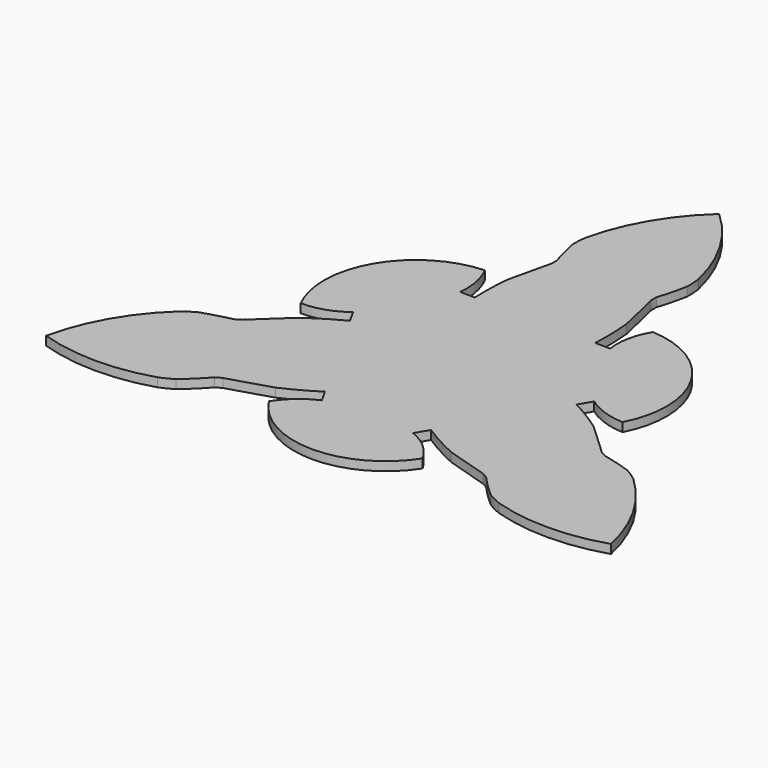
from build123d import *

# Parameters (mm, degrees)
F1_DEPTH = 1.524


with BuildPart() as f1:
    # F0 (on Top) → F1 (new body)
    with BuildSketch(Plane.XY):
        with BuildLine():
            ThreePointArc((-10.328003, 23.34511), (-10.546485, 19.972041), (-10.513837, 16.592061))
            Line((-10.513837, 16.592061), (10.397906, 16.369229))
            Line((10.397906, 16.369229), (10.397906, 16.592061))
            ThreePointArc((10.397906, 16.592061), (10.430555, 19.972041), (10.212073, 23.34511))
            ThreePointArc((10.212073, 23.34511), (9.373504, 27.05499), (8.504586, 30.75788))
            Line((8.504586, 30.75788), (8.504586, 31.872794))
            ThreePointArc((8.504586, 31.872794), (9.226054, 34.37206), (9.788919, 36.91175))
            ThreePointArc((9.788919, 36.91175), (9.766765, 38.207065), (9.636335, 39.495986))
            ThreePointArc((9.636335, 39.495986), (6.067855, 48.539888), (-0.057965, 56.089759))
            ThreePointArc((-0.057965, 56.089759), (-6.183786, 48.539888), (-9.752265, 39.495986))
            ThreePointArc((-9.752265, 39.495986), (-9.882696, 38.207065), (-9.904849, 36.91175))
            ThreePointArc((-9.904849, 36.91175), (-9.341984, 34.37206), (-8.620516, 31.872794))
            Line((-8.620516, 31.872794), (-8.620516, 30.75788))
            ThreePointArc((-8.620516, 30.75788), (-9.489434, 27.05499), (-10.328003, 23.34511))
        make_face()
        with BuildLine():
            ThreePointArc((-14.396, 23.613142), (-27.322804, 15.78758), (-27.740605, 0.682378))
            ThreePointArc((-27.740605, 0.682378), (-23.982132, 1.254002), (-20.641251, 3.06822))
            Line((-20.641251, 3.06822), (-19.369999, 0.811142))
            Line((-19.369999, 0.811142), (-9.112228, -17.40128))
            Line((-9.112228, -17.40128), (-7.869689, -19.607378))
            ThreePointArc((-7.869689, -19.607378), (-10.90344, -21.545267), (-13.251581, -24.273872))
            ThreePointArc((-13.251581, -24.273872), (-0.011043, -31.556032), (13.279346, -24.365258))
            ThreePointArc((13.279346, -24.365258), (10.905069, -21.396137), (7.663469, -19.409958))
            Line((7.663469, -19.409958), (8.978424, -17.187422))
            Line((8.978424, -17.187422), (19.626065, 0.809219))
            Line((19.626065, 0.809219), (20.915332, 2.988339))
            ThreePointArc((20.915332, 2.988339), (24.110468, 1.329978), (27.647581, 0.660731))
            ThreePointArc((27.647581, 0.660731), (27.333847, 15.768452), (14.461259, 23.68288))
            ThreePointArc((14.461259, 23.68288), (13.077063, 20.142135), (12.977783, 16.341738))
            Line((12.977783, 16.341738), (10.397906, 16.369229))
            Line((10.397906, 16.369229), (-10.513837, 16.592061))
            Line((-10.513837, 16.592061), (-13.045643, 16.61904))
            ThreePointArc((-13.045643, 16.61904), (-13.207029, 20.215289), (-14.396, 23.613142))
        make_face()
        with BuildLine():
            Line((-9.112228, -17.40128), (-19.369999, 0.811142))
            Line((-19.369999, 0.811142), (-19.5681, 0.708821))
            ThreePointArc((-19.5681, 0.708821), (-22.511572, -0.952895), (-25.323495, -2.828641))
            ThreePointArc((-25.323495, -2.828641), (-28.117061, -5.409803), (-30.889398, -8.013752))
            Line((-30.889398, -8.013752), (-31.854942, -8.571209))
            ThreePointArc((-31.854942, -8.571209), (-34.380104, -9.196033), (-36.860973, -9.978423))
            ThreePointArc((-36.860973, -9.978423), (-37.971671, -10.645265), (-39.022695, -11.402682))
            ThreePointArc((-39.022695, -11.402682), (-45.070704, -19.015027), (-48.546173, -28.095079))
            ThreePointArc((-48.546173, -28.095079), (-38.944884, -29.62526), (-29.328395, -28.193702))
            ThreePointArc((-29.328395, -28.193702), (-28.146941, -27.662198), (-27.014089, -27.033726))
            ThreePointArc((-27.014089, -27.033726), (-25.096085, -25.276425), (-23.292391, -23.401983))
            Line((-23.292391, -23.401983), (-22.326847, -22.844526))
            ThreePointArc((-22.326847, -22.844526), (-18.685592, -21.745586), (-15.053457, -20.616868))
            ThreePointArc((-15.053457, -20.616868), (-12.023052, -19.119545), (-9.112228, -17.40128))
        make_face()
        with BuildLine():
            Line((19.626065, 0.809219), (8.978424, -17.187422))
            Line((8.978424, -17.187422), (9.170193, -17.300882))
            ThreePointArc((9.170193, -17.300882), (12.081018, -19.019146), (15.111422, -20.51647))
            ThreePointArc((15.111422, -20.51647), (18.743557, -21.645188), (22.384812, -22.744127))
            Line((22.384812, -22.744127), (23.350356, -23.301585))
            ThreePointArc((23.350356, -23.301585), (25.15405, -25.176027), (27.072054, -26.933327))
            ThreePointArc((27.072054, -26.933327), (28.204906, -27.561799), (29.38636, -28.093304))
            ThreePointArc((29.38636, -28.093304), (39.002849, -29.524861), (48.604139, -27.99468))
            ThreePointArc((48.604139, -27.99468), (45.128669, -18.914629), (39.08066, -11.302284))
            ThreePointArc((39.08066, -11.302284), (38.029636, -10.544867), (36.918938, -9.878024))
            ThreePointArc((36.918938, -9.878024), (34.438069, -9.095634), (31.912908, -8.470811))
            Line((31.912908, -8.470811), (30.947364, -7.913354))
            ThreePointArc((30.947364, -7.913354), (28.175026, -5.309404), (25.38146, -2.728242))
            ThreePointArc((25.38146, -2.728242), (22.569538, -0.852496), (19.626065, 0.809219))
        make_face()
    extrude(amount=F1_DEPTH)


solid = f1.part
